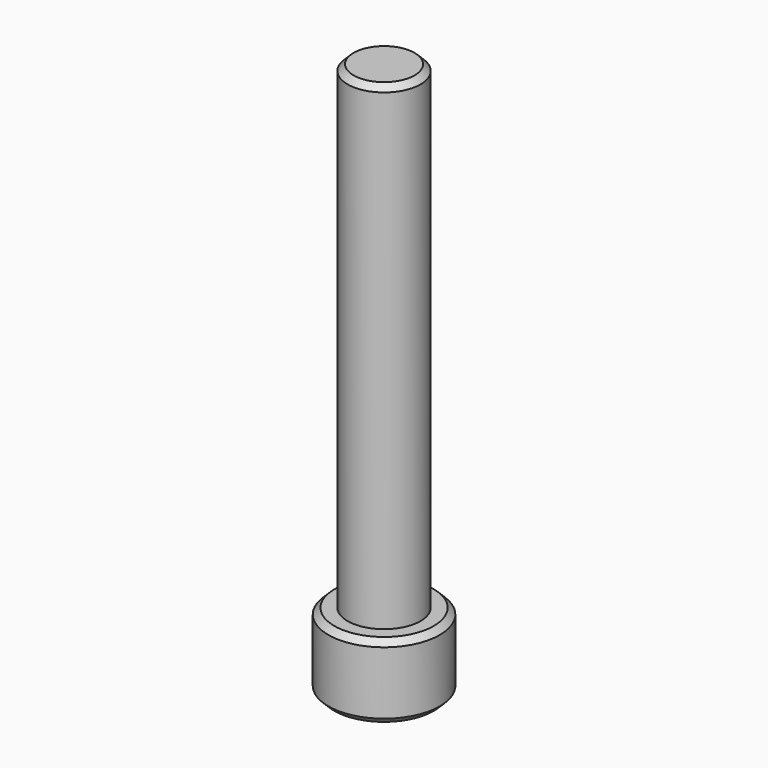
from build123d import *

# Parameters (mm, degrees)
F0_R     = 4.73075
F1_DEPTH = 6.35
F2_R     = 3.0988
F3_DEPTH = 40.64
F5_DEPTH = 4.318
F6_SIZE  = 0.508


with BuildPart() as f1:
    # F0 (on Top) → F1 (new body)
    with BuildSketch(Plane.XY):
        Circle(F0_R)
    extrude(amount=F1_DEPTH)

    # F2 (on face) → F3 (join)
    with BuildSketch(Plane.XY.offset(6.35)):
        Circle(F2_R)
    extrude(amount=F3_DEPTH)

    # F4 (on face) → F5 (cut)
    with BuildSketch(Plane(origin=(0, 0, 0), x_dir=(1, 0, 0), z_dir=(0, 0, -1))):
        Polygon((2.38125, -1.374815), (2.38125, 1.374815), (0, 2.749631), (-2.38125, 1.374815), (-2.38125, -1.374815), (0, -2.749631), align=None)
    extrude(amount=-F5_DEPTH, mode=Mode.SUBTRACT)

    # F6
    f6_edges = [f1.edges().sort_by_distance(p)[0] for p in [
        (1.190625, 2.062223, 0),
        (2.38125, 0, 0),
        (1.190625, -2.062223, 0),
        (-1.190625, -2.062223, 0),
        (-2.38125, 0, 0),
        (-1.190625, 2.062223, 0),
        (-4.73075, 0, 0),
        (-4.73075, 0, 6.35),
        (-3.0988, 0, 46.99),
    ]]
    chamfer(f6_edges, length=F6_SIZE)


solid = f1.part
